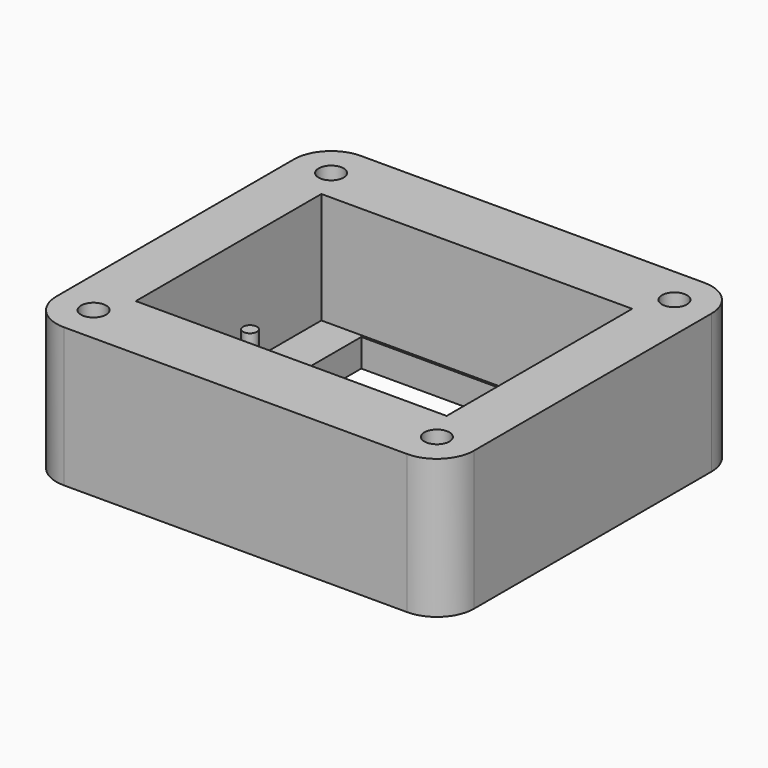
from build123d import *

# Parameters (mm, degrees)
F0_R     = 1.35
F0_W     = 33.5
F0_H     = 25
F1_DEPTH = 15
F0_R_2   = 0.75
F0_W_2   = 24.5
F0_H_2   = 24.5
F2_DEPTH = 3
F3_DEPTH = 8
F4_DEPTH = 4


with BuildPart() as f1:
    # F0 (on Top) → F1 (new body)
    with BuildSketch(Plane.XY):
        with BuildLine():
            ThreePointArc((-20.740295, 15.731344), (-23.568722, 14.559771), (-24.740295, 11.731344))
            Line((-24.740295, 11.731344), (-24.740295, -20.268656))
            ThreePointArc((-24.740295, -20.268656), (-23.568722, -23.097083), (-20.740295, -24.268656))
            Line((-20.740295, -24.268656), (16.259705, -24.268656))
            ThreePointArc((16.259705, -24.268656), (19.088132, -23.097083), (20.259705, -20.268656))
            Line((20.259705, -20.268656), (20.259705, 11.731344))
            ThreePointArc((20.259705, 11.731344), (19.088132, 14.559771), (16.259705, 15.731344))
            Line((16.259705, 15.731344), (-20.740295, 15.731344))
        make_face()
        with Locations((-20.740295, -20.268656)):
            Circle(F0_R, mode=Mode.SUBTRACT)
        with Locations((16.259705, -20.268656)):
            Circle(F0_R, mode=Mode.SUBTRACT)
        with Locations((-20.740295, 11.731344)):
            Circle(F0_R, mode=Mode.SUBTRACT)
        with Locations((-2.240295, -4.268656)):
            Rectangle(F0_W, F0_H, mode=Mode.SUBTRACT)
        with Locations((16.259705, 11.731344)):
            Circle(F0_R, mode=Mode.SUBTRACT)
    extrude(amount=F1_DEPTH)

    # F0 (on Top) → F2 (join)
    with BuildSketch(Plane.XY):
        with Locations((-2.240295, -4.268656)):
            Rectangle(F0_W, F0_H)
        with Locations((-16.674155, -4.268656)):
            Circle(F0_R_2, mode=Mode.SUBTRACT)
        with Locations((-2.240295, -4.268656)):
            Rectangle(F0_W_2, F0_H_2, mode=Mode.SUBTRACT)
        with Locations((12.193565, -4.268656)):
            Circle(F0_R_2, mode=Mode.SUBTRACT)
    extrude(amount=F2_DEPTH)

    # F0 (on Top) → F3 (join)
    with BuildSketch(Plane.XY):
        with Locations((-16.674155, -4.268656)):
            Circle(F0_R_2)
        with Locations((12.193565, -4.268656)):
            Circle(F0_R_2)
    extrude(amount=F3_DEPTH)

    # F0 (on Top) → F4 (join)
    with BuildSketch(Plane.XY):
        with Locations((-20.740295, 11.731344)):
            Circle(F0_R)
        with Locations((16.259705, 11.731344)):
            Circle(F0_R)
        with Locations((16.259705, -20.268656)):
            Circle(F0_R)
        with Locations((-20.740295, -20.268656)):
            Circle(F0_R)
    extrude(amount=F4_DEPTH)


solid = f1.part
